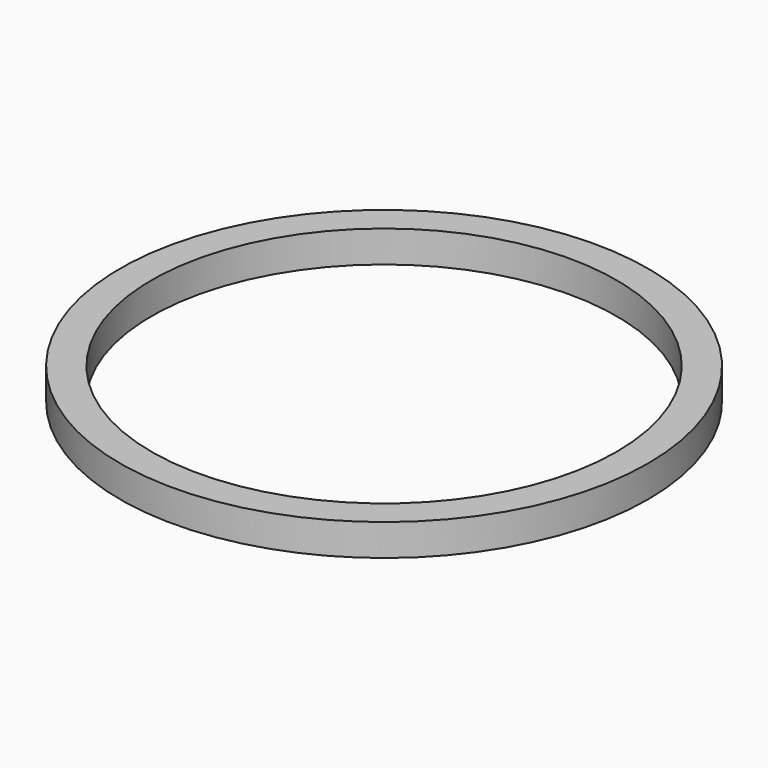
from build123d import *

# Parameters (mm, degrees)
F0_R     = 16.51
F0_R_2   = 14.5415
F1_DEPTH = 1.9812


with BuildPart() as f1:
    # F0 (on Top) → F1 (new body)
    with BuildSketch(Plane.XY):
        Circle(F0_R)
        Circle(F0_R_2, mode=Mode.SUBTRACT)
        Circle(F0_R)
        Circle(F0_R_2, mode=Mode.SUBTRACT)
    extrude(amount=F1_DEPTH)


solid = f1.part
